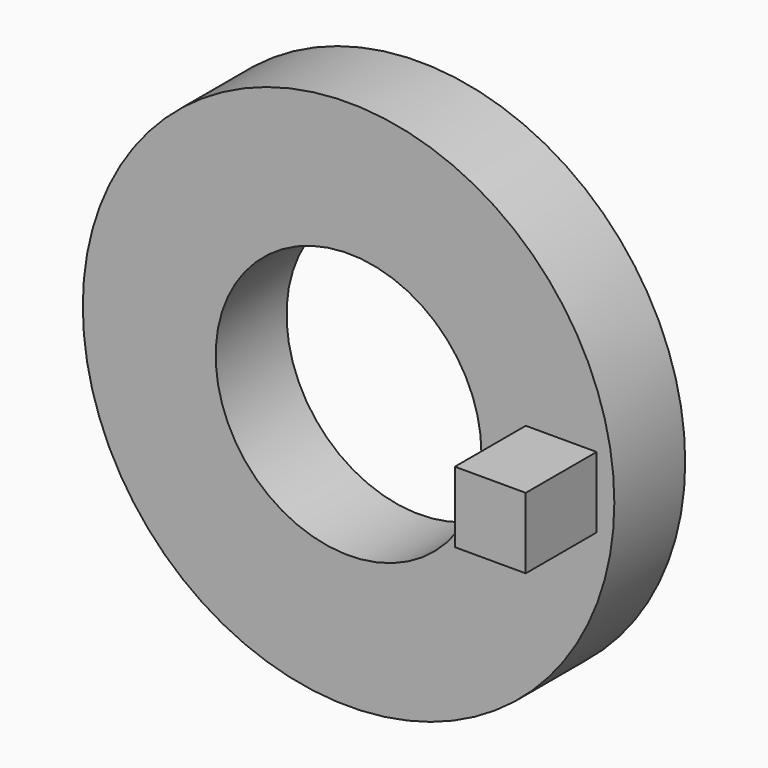
from build123d import *

# Parameters (mm, degrees)
F0_R     = 75
F1_DEPTH = 25
F2_R     = 37.5
F3_DEPTH = 25
F4_W     = 20
F4_H     = 20
F5_DEPTH = 25


with BuildPart() as f1:
    # F0 (on Front) → F1 (new body)
    with BuildSketch(Plane.XZ):
        Circle(F0_R)
    extrude(amount=F1_DEPTH)

    # F2 (on face) → F3 (cut)
    with BuildSketch(Plane.XZ.offset(25)):
        Circle(F2_R)
    extrude(amount=-F3_DEPTH, mode=Mode.SUBTRACT)

    # F4 (on face) → F5 (join)
    with BuildSketch(Plane.XZ.offset(25)):
        with Locations((60, 0.96703)):
            Rectangle(F4_W, F4_H)
    extrude(amount=F5_DEPTH)


solid = f1.part
